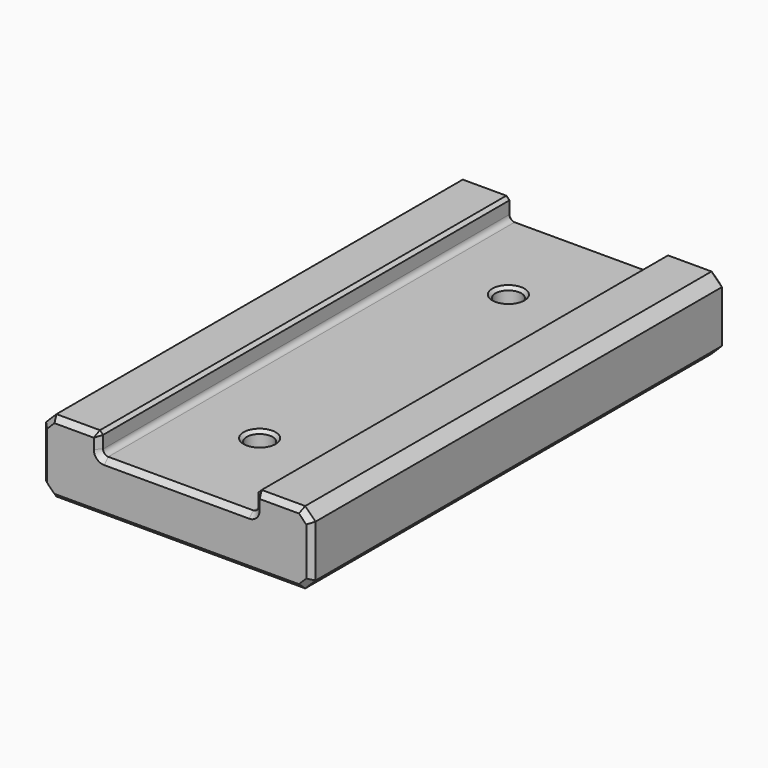
from build123d import *

# Parameters (mm, degrees)
PAD003_DEPTH    = 25
SKETCH030_R     = 1.25
POCKET005_DEPTH = 12.001
CHAMFER007_SIZE = 0.3
CHAMFER008_SIZE = 0.5


with BuildPart() as part:
    # Sketch028 → Pad003 (new body, symmetric)
    with BuildSketch(Plane.XZ):
        with BuildLine():
            Line((-7.5, -5), (-7.5, -6.5))
            ThreePointArc((-7.5, -6.5), (-7.353553, -6.853553), (-7, -7))
            Line((-7, -7), (7, -7))
            ThreePointArc((7, -7), (7.353553, -6.853553), (7.5, -6.5))
            Line((7.5, -6.5), (7.5, -5))
            Line((7.5, -5), (12, -5))
            Line((12, -5), (13, -6))
            Line((13, -6), (13, -11))
            Line((13, -11), (12, -12))
            Line((12, -12), (-12, -12))
            Line((-13, -11), (-12, -12))
            Line((-13, -11), (-13, -6))
            Line((-13, -6), (-12, -5))
            Line((-12, -5), (-7.5, -5))
        make_face()
    extrude(amount=PAD003_DEPTH, both=True)

    # Sketch030 → Pocket005 (cut, through all)
    with BuildSketch(Plane.XY):
        with Locations((0, 15)):
            Circle(SKETCH030_R)
        with Locations((0, -15)):
            Circle(SKETCH030_R)
    extrude(amount=-POCKET005_DEPTH, mode=Mode.SUBTRACT)

    # Chamfer007
    chamfer007_edges = [part.edges().sort_by_distance(p)[0] for p in [
        (-7.5, 0, -5),
        (7.5, 0, -5),
        (-1.25, 15, -7),
        (-1.25, -15, -7),
        (-1.25, 15, -12),
        (-1.25, -15, -12),
    ]]
    chamfer(chamfer007_edges, length=CHAMFER007_SIZE)

    # Chamfer008
    chamfer008_edges = [part.edges().sort_by_distance(p)[0] for p in [
        (-9.9, -25, -5),
        (-7.65, -25, -5.15),
        (-12.5, -25, -5.5),
        (-7.5, -25, -5.9),
        (-13, -25, -8.5),
        (-7.353553, -25, -6.853553),
        (-12.5, -25, -11.5),
        (0, -25, -7),
        (0, -25, -12),
        (7.353553, -25, -6.853553),
        (12.5, -25, -11.5),
        (7.5, -25, -5.9),
        (13, -25, -8.5),
        (7.65, -25, -5.15),
        (12.5, -25, -5.5),
        (9.9, -25, -5),
        (-9.9, 25, -5),
        (-7.65, 25, -5.15),
        (-12.5, 25, -5.5),
        (-7.5, 25, -5.9),
        (-13, 25, -8.5),
        (-7.353553, 25, -6.853553),
        (-12.5, 25, -11.5),
        (0, 25, -7),
        (0, 25, -12),
        (7.353553, 25, -6.853553),
        (12.5, 25, -11.5),
        (7.5, 25, -5.9),
        (13, 25, -8.5),
        (7.65, 25, -5.15),
        (12.5, 25, -5.5),
        (9.9, 25, -5),
    ]]
    chamfer(chamfer008_edges, length=CHAMFER008_SIZE)


with BuildPart() as part_1:
    # Body004 placement: moved
    add(part.part.moved(Location((0, -55, 0))))


solid = part_1.part
